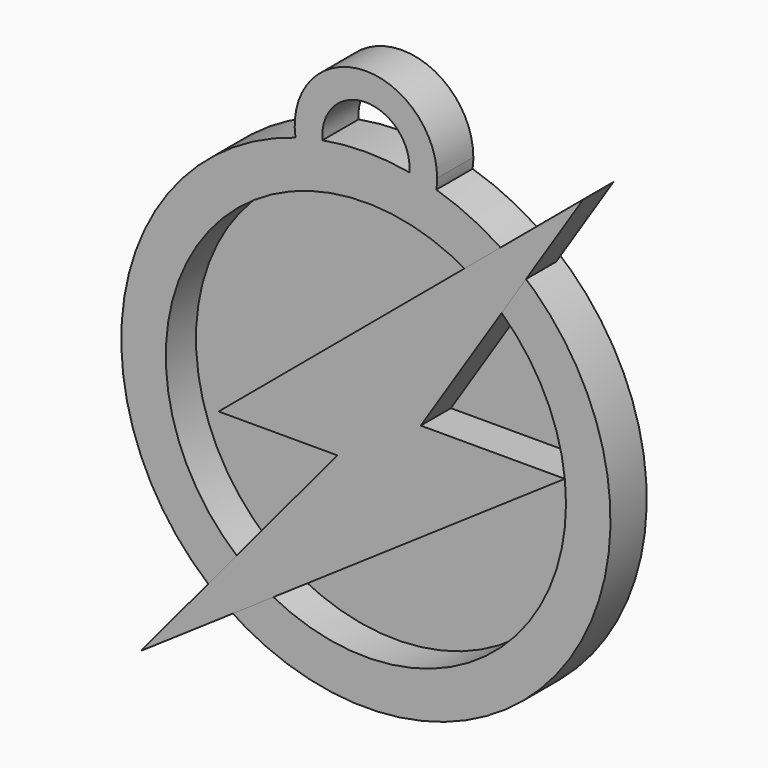
from build123d import *

# Parameters (mm, degrees)
F0_R     = 32.4313338528
F1_DEPTH = 1
F2_R     = 32.4313338528
F2_R_2   = 26.5287639538
F3_DEPTH = 5
F5_DEPTH = 5
F7_DEPTH = 6


with BuildPart() as f1:
    # F0 (on Front) → F1 (new body)
    with BuildSketch(Plane.XZ):
        Circle(F0_R)
    extrude(amount=-F1_DEPTH)

    # F2 (on face) → F3 (join)
    with BuildSketch(Plane.XZ):
        Circle(F2_R)
        Circle(F2_R_2, mode=Mode.SUBTRACT)
    extrude(amount=F3_DEPTH)

    # F6 (on face) → F7 (join)
    with BuildSketch(Plane.XZ.offset(5)):
        with BuildLine():
            ThreePointArc((-5.7628004775, 31.9152243628), (-0.258312309, 38.2114301409), (5.7858653932, 32.4313338528))
            ThreePointArc((5.7858653932, 32.4313338528), (5.7800962881, 32.1730215438), (5.7628004775, 31.9152243628))
            ThreePointArc((5.7628004775, 31.9152243628), (7.5641556763, 31.536882604), (9.3411452706, 31.0569544628))
            ThreePointArc((9.3411452706, 31.0569544628), (9.4165362852, 31.7423069577), (9.4417113742, 32.4313338528))
            ThreePointArc((9.4417113742, 32.4313338528), (-0.6890268951, 41.8478701381), (-9.3411452706, 31.0569544628))
            ThreePointArc((-9.3411452706, 31.0569544628), (-7.5641556763, 31.536882604), (-5.7628004775, 31.9152243628))
        make_face()
    extrude(amount=-F7_DEPTH)


with BuildPart() as f5:
    # F4 (on face) → F5 (new body)
    with BuildSketch(Plane.XZ):
        with BuildLine():
            ThreePointArc((18.0009097166, 19.4869845356), (15.6441670807, 21.4251103443), (13.08046056, 23.0797935098))
            Line((13.08046056, 23.0797935098), (-19.5253267884, -4.2180763558))
            Line((-19.5253267884, -4.2180763558), (-3.7856386043, -4.2180763558))
            Line((-3.7856386043, -4.2180763558), (-17.133077543, -20.2542087187))
            ThreePointArc((-17.133077543, -20.2542087187), (-14.7905568302, -22.0230503239), (-12.2669577951, -23.5222673943))
            Line((-12.2669577951, -23.5222673943), (26.3750613609, 2.851570642))
            Line((26.3750613609, 2.851570642), (7.2696207962, 2.851570642))
            Line((7.2696207962, 2.851570642), (18.0009097166, 19.4869845356))
        make_face()
        with BuildLine():
            ThreePointArc((-12.2669577951, -23.5222673943), (-14.7905568302, -22.0230503239), (-17.133077543, -20.2542087187))
            Line((-17.133077543, -20.2542087187), (-29.8310760409, -35.5100780725))
            Line((-29.8310760409, -35.5100780725), (-12.2669577951, -23.5222673943))
        make_face()
        with BuildLine():
            Line((18.0009097166, 19.4869845356), (28.8180038333, 36.2554118037))
            Line((28.8180038333, 36.2554118037), (13.08046056, 23.0797935098))
            ThreePointArc((13.08046056, 23.0797935098), (15.6441670807, 21.4251103443), (18.0009097166, 19.4869845356))
        make_face()
    extrude(amount=F5_DEPTH)


solid = Compound([f1.part, f5.part])
